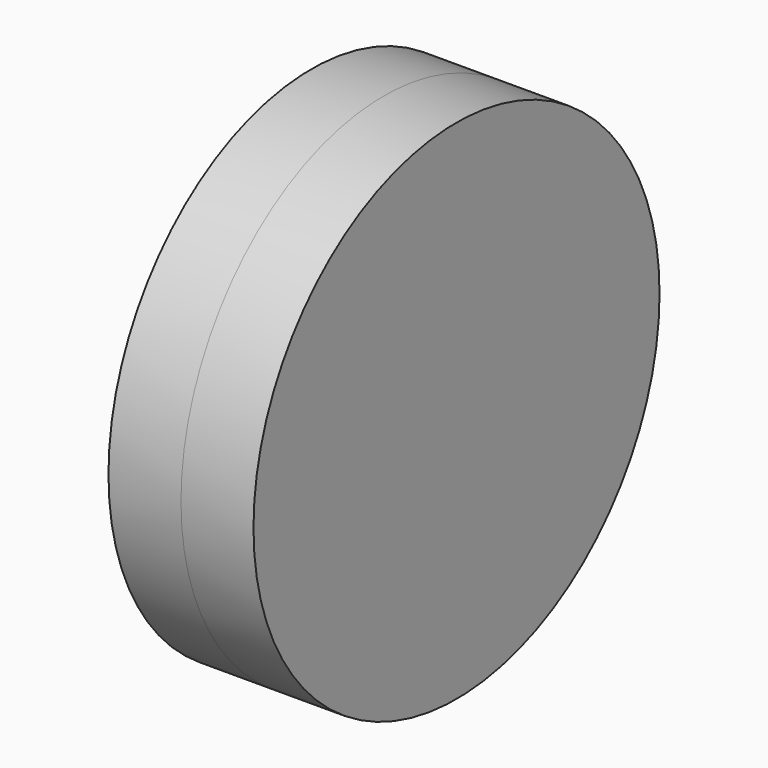
from build123d import *

# Parameters (mm, degrees)
F0_R     = 88.9
F1_DEPTH = 25.4


with BuildPart() as f1:
    # F0 (on Right) → F1 (new body)
    with BuildSketch(Plane.YZ):
        Circle(F0_R)
    extrude(amount=F1_DEPTH)

    # F2: F1 across face


with BuildPart() as f1_1:
    add(f1.part)
    add(f1.part.mirror(Plane.YZ.offset(25.4)))


solid = f1_1.part
